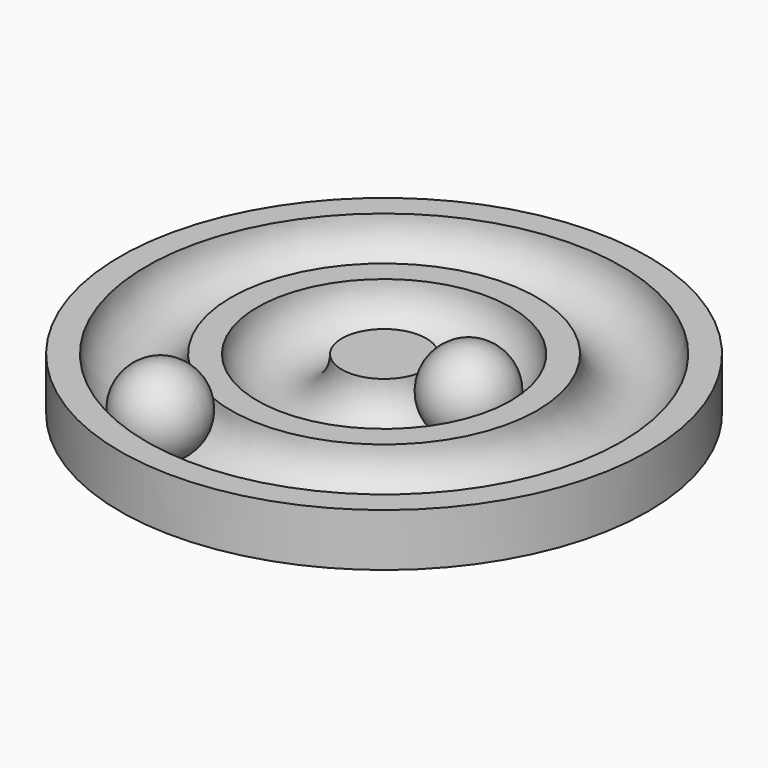
from build123d import *

# Parameters (mm, degrees)
TORUS_R        = 8
TORUS001_R     = 8
CYLINDER_R     = 50
CYLINDER_DEPTH = 10


with BuildPart() as torus:
    # Torus → Torus (revolve)
    with BuildSketch(Plane(origin=(0, 0, 10), x_dir=(1, 0, 0), z_dir=(0, -1, 0))):
        with Locations((16, 0)):
            Circle(TORUS_R)
    revolve(axis=Axis((0, 0, 10), (0, 0, 1)))


with BuildPart() as fusion:
    # Torus001 → Torus001 (revolve)
    with BuildSketch(Plane(origin=(0, 0, 10), x_dir=(1, 0, 0), z_dir=(0, -1, 0))):
        with Locations((37, 0)):
            Circle(TORUS001_R)
    revolve(axis=Axis((0, 0, 10), (0, 0, 1)))

    # Fusion: union Torus
    add(torus.part)


with BuildPart() as porta_bales:
    # Cylinder → Cylinder (new body)
    with BuildSketch(Plane.XY):
        Circle(CYLINDER_R)
    extrude(amount=CYLINDER_DEPTH)

    # Cut: cut Fusion
    add(fusion.part, mode=Mode.SUBTRACT)


with BuildPart() as sphere:
    # Sphere → Sphere (revolve)
    with BuildSketch(Plane(origin=(16, 0, 9), x_dir=(1, 0, 0), z_dir=(0, -1, 0))):
        with BuildLine():
            ThreePointArc((0, -8), (8, 0), (0, 8))
            Line((0, 8), (0, -8))
        make_face()
    revolve(axis=Axis((16, 0, 9), (0, 0, 1)))


with BuildPart() as sphere001:
    # Sphere001 → Sphere001 (revolve)
    with BuildSketch(Plane(origin=(-16, -33, 9), x_dir=(1, 0, 0), z_dir=(0, -1, 0))):
        with BuildLine():
            ThreePointArc((0, -8), (8, 0), (0, 8))
            Line((0, 8), (0, -8))
        make_face()
    revolve(axis=Axis((-16, -33, 9), (0, 0, 1)))


solid = Compound([porta_bales.part, sphere.part, sphere001.part])
